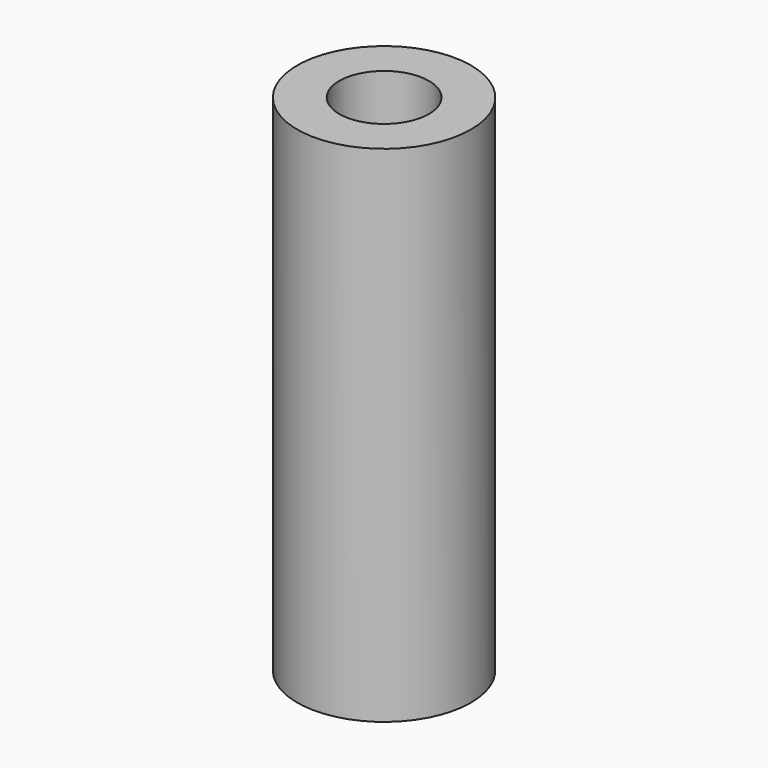
from build123d import *

# Parameters (mm, degrees)
SKETCH_R   = 3.1
SKETCH_R_2 = 1.6
PAD_DEPTH  = 18


with BuildPart() as part:
    # Sketch → Pad (new body)
    with BuildSketch(Plane.XY):
        Circle(SKETCH_R)
        Circle(SKETCH_R_2, mode=Mode.SUBTRACT)
    extrude(amount=PAD_DEPTH)


solid = part.part
